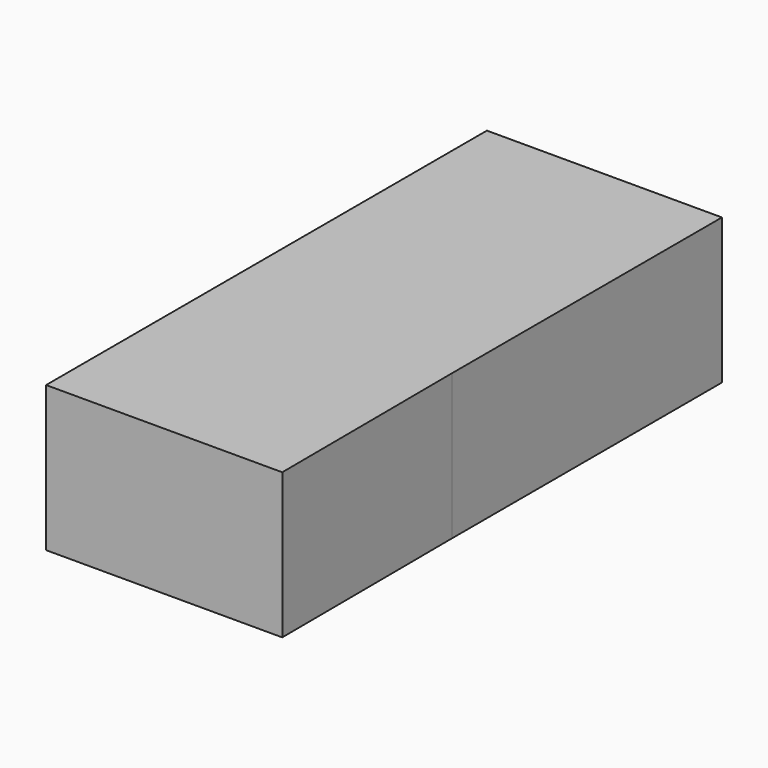
from build123d import *

# Parameters (mm, degrees)
F1_DEPTH = 25.4
F2_W     = 41.0666950047
F2_H     = 25.4
F3_DEPTH = 58.928


with BuildPart() as f1:
    # F0 (on Top) → F1 (new body)
    with BuildSketch(Plane.XY):
        Polygon((27.5070536882, 3.7986966781), (27.3066349328, 41.1456301808), (-13.7600600719, 41.1456301808), (-13.7600600719, 3.7986966781), align=None)
    extrude(amount=F1_DEPTH)

    # F2 (on face) → F3 (join)
    with BuildSketch(Plane(origin=(0, 41.1456301808, 0), x_dir=(-1, 0, 0), z_dir=(0, 1, 0))):
        with Locations((-6.7732874304, 12.7)):
            Rectangle(F2_W, F2_H)
    extrude(amount=F3_DEPTH)


solid = f1.part
